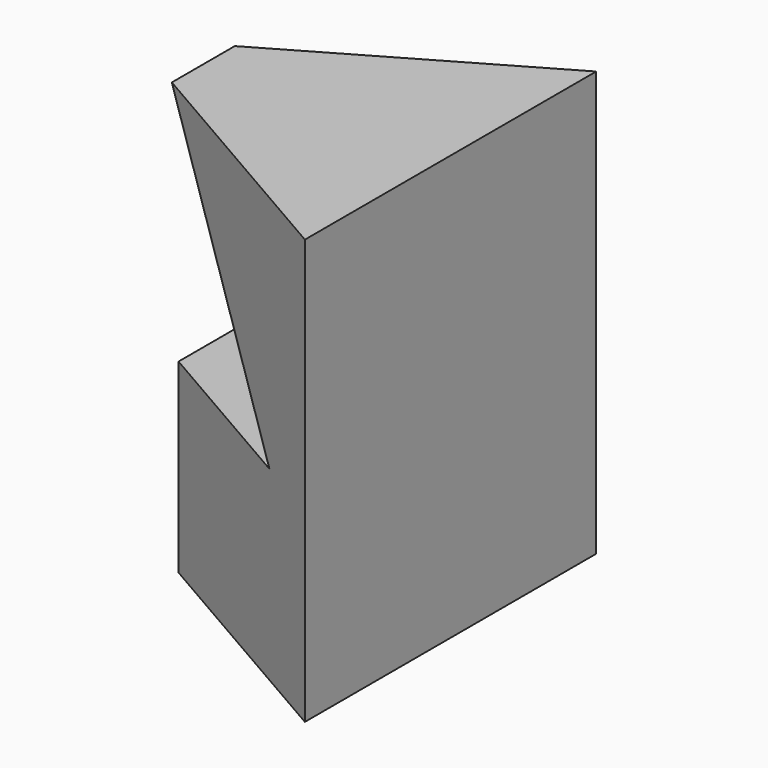
from build123d import *

# Parameters (mm, degrees)
F1_DEPTH = 92.71
F4_DEPTH = 539.242


with BuildPart() as f1:
    # F0 (on Top) → F1 (new body)
    with BuildSketch(Plane.XY):
        Polygon((22.950954, -39.752218), (22.950954, 39.752218), (-45.901908, 0), align=None)
    extrude(amount=F1_DEPTH)

    # F3 (on offset) → F4 (cut)
    with BuildSketch(Plane.XZ.offset(254)):
        Polygon((-61.28243, 96.673079), (-61.28243, 0), (-28.304175, 0), (-28.304175, 40.58408), (8.569154, 40.58408), (-30.900886, 92.518345), (-33.757269, 96.673079), align=None)
    extrude(amount=-F4_DEPTH, mode=Mode.SUBTRACT)


solid = f1.part
